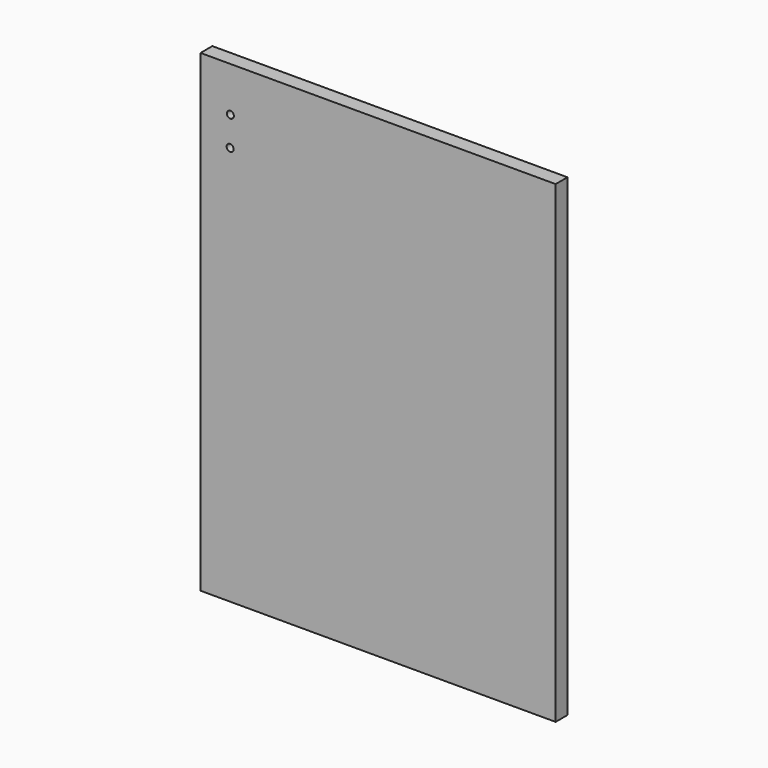
from build123d import *

# Parameters (mm, degrees)
F0_W     = 152.4
F0_H     = 203.2
F1_DEPTH = 6.35
F3_DEPTH = 12.7


with BuildPart() as f1:
    # F0 (on Front) → F1 (new body)
    with BuildSketch(Plane.XZ):
        Rectangle(F0_W, F0_H)
    extrude(amount=-F1_DEPTH)

    # F2 (on face) → F3 (cut)
    with BuildSketch(Plane.XZ):
        with BuildLine():
            Line((-63.5, 82.55), (-63.5, 83.911103))
            ThreePointArc((-63.5, 83.911103), (-64.899106, 82.4145), (-63.5, 80.917897))
            Line((-63.5, 80.917897), (-63.5, 82.55))
        make_face()
        with BuildLine():
            ThreePointArc((-62, 69.85), (-62.43934, 70.91066), (-63.5, 71.35))
            ThreePointArc((-63.5, 71.35), (-64.56066, 68.78934), (-62, 69.85))
        make_face()
        with BuildLine():
            ThreePointArc((-61.899106, 82.4145), (-62.374738, 83.510251), (-63.5, 83.911103))
            Line((-63.5, 83.911103), (-63.5, 82.55))
            Line((-63.5, 82.55), (-63.5, 80.917897))
            ThreePointArc((-63.5, 80.917897), (-62.374738, 81.318749), (-61.899106, 82.4145))
        make_face()
    extrude(amount=-F3_DEPTH, mode=Mode.SUBTRACT)


solid = f1.part
